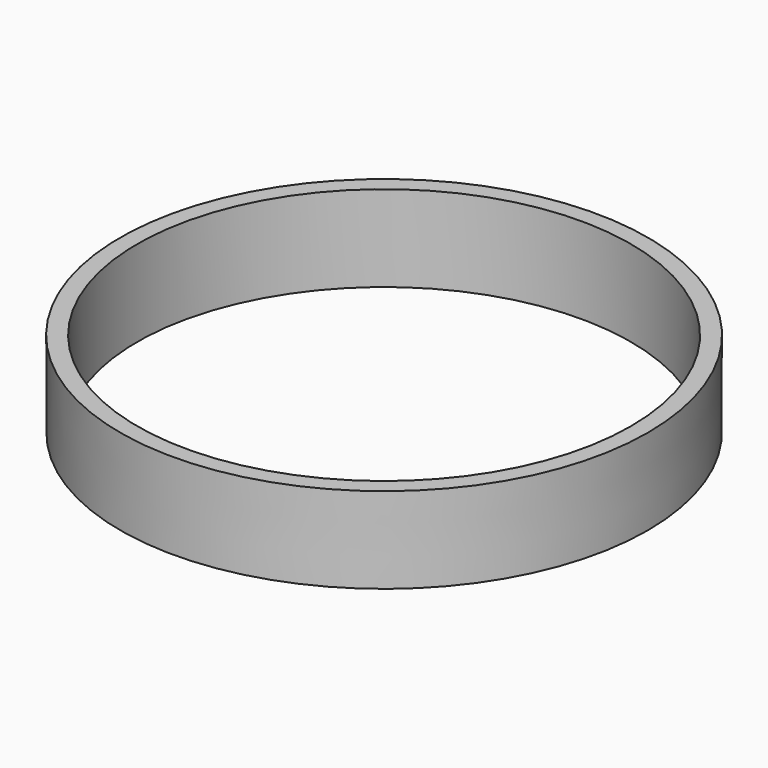
from build123d import *

# Parameters (mm, degrees)
F3_R     = 28.017857
F2_R     = 27.994195
F0_R     = 26.19375
F5_DEPTH = 25.908


with BuildPart() as f4:
    # F3 (on offset) → F4 section 0
    with BuildSketch(Plane.XY.offset(9.144)):
        Circle(F3_R)
    # F2 (on Top) → F4 section 1
    with BuildSketch(Plane.XY):
        Circle(F2_R)
    loft()

    # F0 (on Top) → F5 (cut)
    with BuildSketch(Plane.XY):
        Circle(F0_R)
    extrude(amount=F5_DEPTH, mode=Mode.SUBTRACT)


solid = f4.part
